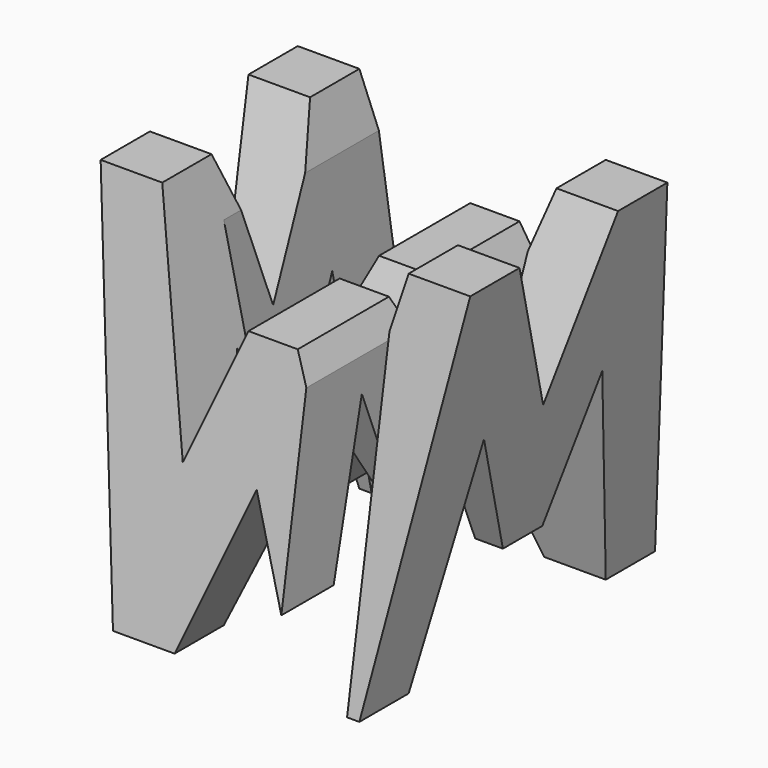
from build123d import *

# Parameters (mm, degrees)
F0_W      = 38.1
F0_H      = 38.1
F1_DEPTH  = 38.1
F6_DEPTH  = 38.1
F8_DEPTH  = 38.1
F9_W      = 7.62
F9_H      = 25.4
F10_DEPTH = 38.1


with BuildPart() as f1:
    # F0 (on Right) → F1 (new body)
    with BuildSketch(Plane.YZ):
        with Locations((-19.05, 19.05)):
            Rectangle(F0_W, F0_H)
    extrude(amount=F1_DEPTH)

    # F5 (on offset) → F6 (cut)
    with BuildSketch(Plane.XZ.offset(38.1)):
        Polygon((31.75, 38.1), (6.35, 38.1), (11.43, 15.875), (16.51, 28.575), (21.59, 28.575), (26.67, 17.011002), align=None)
        Polygon((0, 38.1), (0, 0), (6.35, 0), align=None)
        Polygon((38.1, 38.1), (31.75, 0), (38.1, 0), align=None)
        Polygon((19.05, 15.875), (12.7, 0), (25.4, 0), align=None)
    extrude(amount=-F6_DEPTH, mode=Mode.SUBTRACT)

    # F7 (on offset) → F8 (cut)
    with BuildSketch(Plane.YZ.offset(38.1)):
        Polygon((-38.1, 38.1), (-38.1, 0), (-31.75, 38.1), align=None)
        Polygon((-19.05, 22.225), (-12.7, 38.1), (-25.4, 38.1), align=None)
        Polygon((-31.75, 0), (-6.35, 0), (-11.43, 22.225), (-16.51, 9.525), (-21.59, 9.525), (-26.67, 22.225), align=None)
        Polygon((-6.35, 38.1), (0, 0), (0, 38.1), align=None)
    extrude(amount=-F8_DEPTH, mode=Mode.SUBTRACT)

    # F9 (on offset) → F10 (cut)
    with BuildSketch(Plane.XY.offset(38.1)):
        with Locations((11.43, -12.7)):
            Rectangle(F9_W, F9_H)
        with Locations((26.67, -25.4)):
            Rectangle(F9_W, F9_H)
    extrude(amount=-F10_DEPTH, mode=Mode.SUBTRACT)


solid = f1.part
